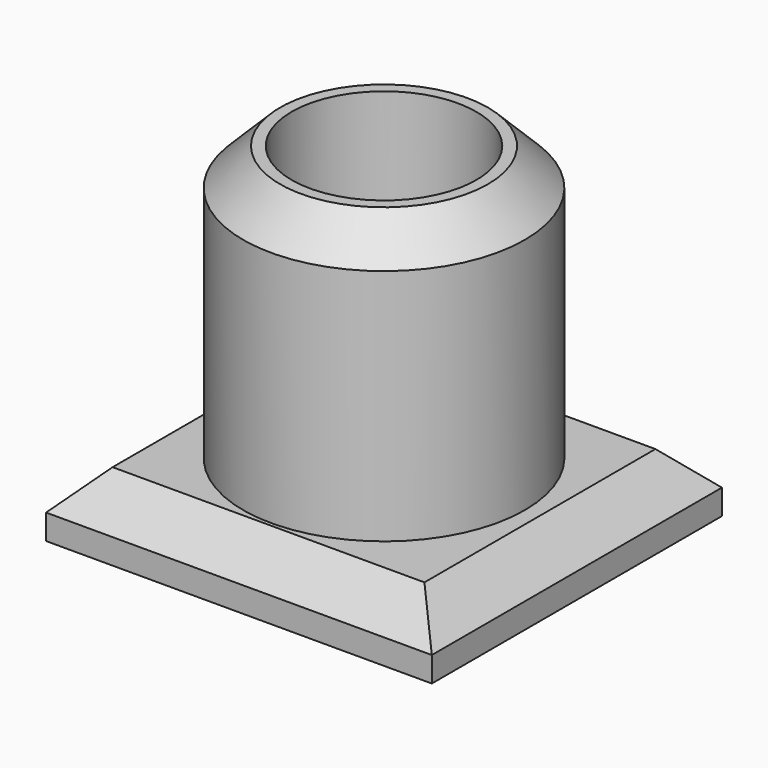
from build123d import *

# Parameters (mm, degrees)
F0_R     = 19.3675985609
F1_DEPTH = 9.9377613515
F2_W     = 53.0373156071
F2_H     = 49.859970808
F3_DEPTH = 8.5315406322
F5_D     = 25.4
F6_DEPTH = 27.8559215367
F7_SIZE  = 5.08
F8_SIZE  = 5.08


with BuildPart() as f1:
    # F0 (on Top) → F1 (new body)
    with BuildSketch(Plane.XY):
        Circle(F0_R)
    extrude(amount=F1_DEPTH)

    # F2 (on Top) → F3 (join)
    with BuildSketch(Plane.XY):
        Rectangle(F2_W, F2_H)
    extrude(amount=-F3_DEPTH)

    # F5 (through all)
    with Locations(Plane(origin=(0, 0, -8.5315406322), x_dir=(1, 0, 0), z_dir=(0, 0, -1))):
        with Locations((0, 0)):
            Hole(F5_D / 2)

    # F6 (add): a face of the model
    f6_faces = [f1.faces().sort_by_distance(p)[0] for p in [
        (-18.8198001498, 0, 9.9377613515),
    ]]
    extrude(f6_faces, amount=F6_DEPTH)

    # F7
    f7_edges = [f1.edges().sort_by_distance(p)[0] for p in [
        (-19.367599, 0, 37.793683),
    ]]
    chamfer(f7_edges, length=F7_SIZE)

    # F8
    f8_edges = [f1.edges().sort_by_distance(p)[0] for p in [
        (26.518658, 0, 0),
        (0, -24.929985, 0),
        (-26.518658, 0, 0),
        (0, 24.929985, 0),
    ]]
    chamfer(f8_edges, length=F8_SIZE)


solid = f1.part
